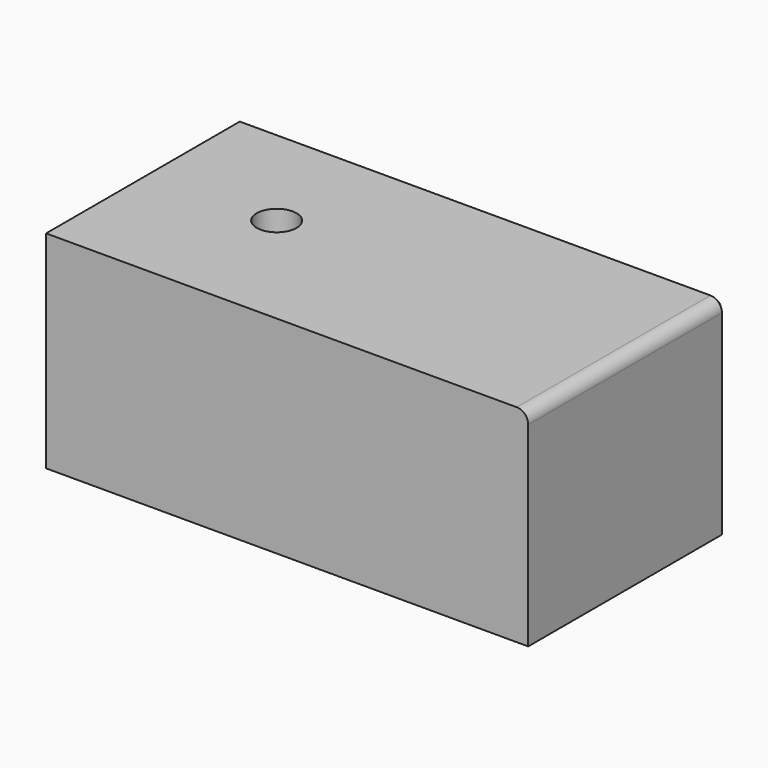
from build123d import *

# Parameters (mm, degrees)
F0_W           = 208.6787745357
F0_H           = 89.537139982
F1_DEPTH       = 109.8
F3_D           = 11
F3_CBORE_D     = 17.25
F3_CBORE_DEPTH = 10
F4_R           = 5
F5_SIZE        = 5


with BuildPart() as f1:
    # F0 (on Front) → F1 (new body)
    with BuildSketch(Plane.XZ):
        with Locations((9.4242058694, 10.4618463665)):
            Rectangle(F0_W, F0_H)
    extrude(amount=F1_DEPTH)

    # F3 (through all)
    with Locations(Plane.XY.offset(55.2304163575)):
        with Locations((-39.9151813984, -53.8)):
            CounterBoreHole(F3_D / 2, F3_CBORE_D / 2, F3_CBORE_DEPTH)

    # F4
    f4_edges = [f1.edges().sort_by_distance(p)[0] for p in [
        (113.763593, -54.9, 55.230416),
    ]]
    fillet(f4_edges, radius=F4_R)

    # F5
    f5_edges = [f1.edges().sort_by_distance(p)[0] for p in [
        (6.924206, 0, 55.230416),
    ]]
    chamfer(f5_edges, length=F5_SIZE)


solid = f1.part
